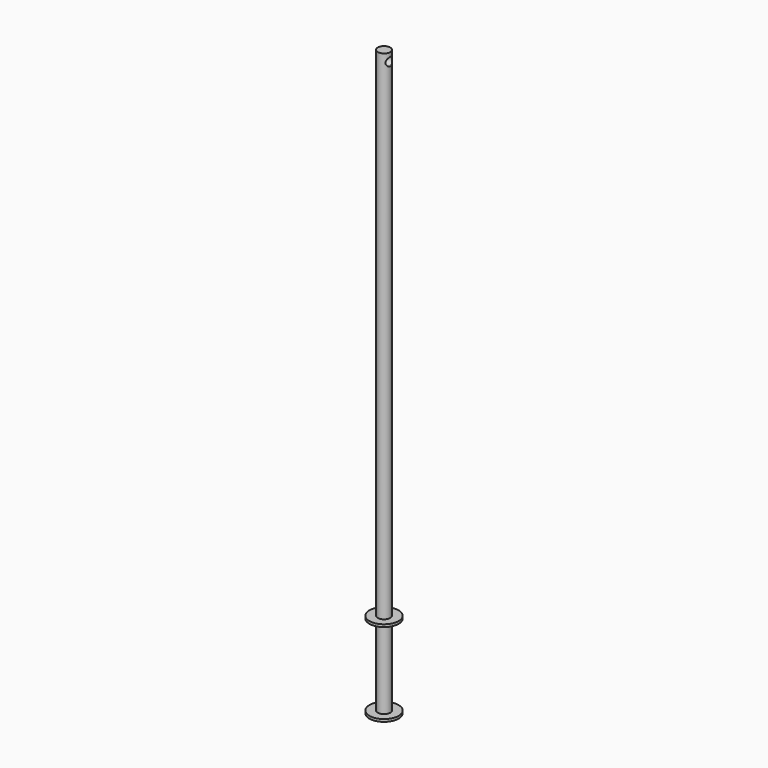
from build123d import *

# Parameters (mm, degrees)
F0_R          = 7.5
F1_DEPTH      = 700
F2_R          = 5
F3_DEPTH      = 7.501
F3_DEPTH_BACK = 7.501
F5_R          = 17.5
F6_DEPTH      = 3
F7_R          = 17.5
F8_DEPTH      = 3


with BuildPart() as f1:
    # F0 (on Top) → F1 (new body)
    with BuildSketch(Plane.XY):
        Circle(F0_R)
    extrude(amount=F1_DEPTH)

    # F2 (on Right) → F3 (cut, two sides)
    with BuildSketch(Plane.YZ) as f3_sk:
        with Locations((0, 690)):
            Circle(F2_R)
    extrude(amount=-F3_DEPTH, mode=Mode.SUBTRACT)
    extrude(f3_sk.sketch, amount=F3_DEPTH_BACK, mode=Mode.SUBTRACT)

    # F5 (on Top) → F6 (join)
    with BuildSketch(Plane.XY):
        Circle(F5_R)
    extrude(amount=F6_DEPTH)

    # F7 (on offset) → F8 (join)
    with BuildSketch(Plane.XY.offset(100)):
        Circle(F7_R)
    extrude(amount=F8_DEPTH)


solid = f1.part
